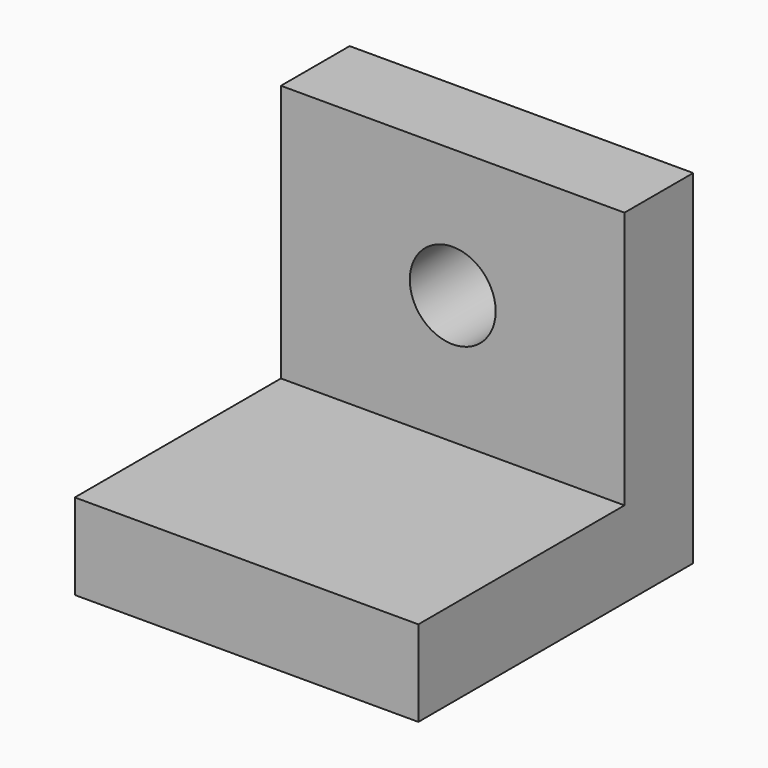
from build123d import *

# Parameters (mm, degrees)
F0_W     = 50.8
F0_H     = 38.1
F1_DEPTH = 12.7
F0_H_2   = 12.7
F2_DEPTH = 50.8
F3_R     = 6.35
F4_DEPTH = 12.7


with BuildPart() as f1:
    # F0 (on Front) → F1 (new body)
    with BuildSketch(Plane.XZ):
        with Locations((3.425086, 5.68239)):
            Rectangle(F0_W, F0_H)
    extrude(amount=F1_DEPTH)

    # F0 (on Front) → F2 (join)
    with BuildSketch(Plane.XZ):
        with Locations((3.425086, -19.71761)):
            Rectangle(F0_W, F0_H_2)
    extrude(amount=F2_DEPTH)

    # F3 (on face) → F4 (cut, through all)
    with BuildSketch(Plane.XZ.offset(12.7)):
        with Locations((3.425086, 5.68239)):
            Circle(F3_R)
    extrude(amount=-F4_DEPTH, mode=Mode.SUBTRACT)


solid = f1.part
